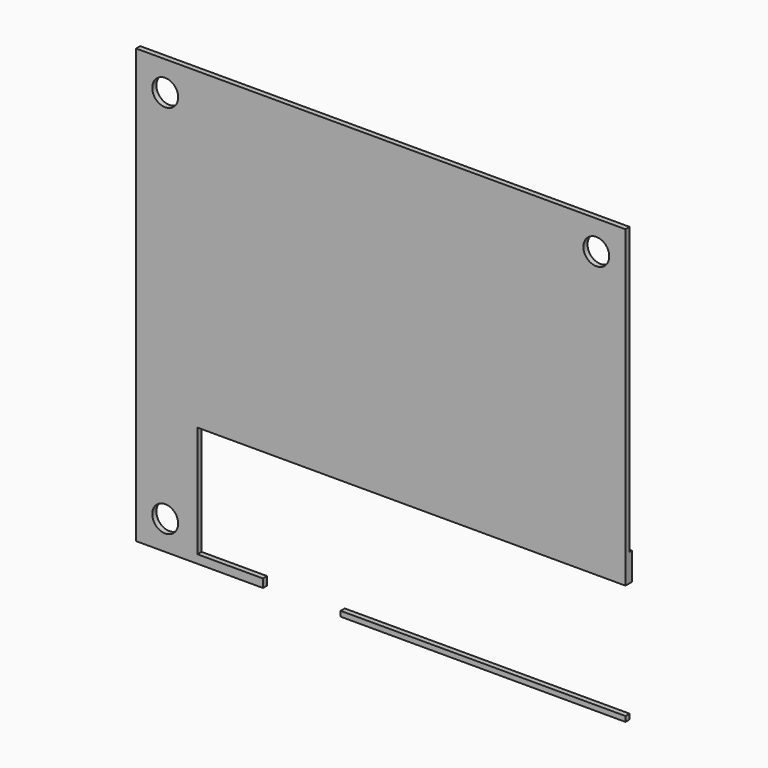
from build123d import *

# Parameters (mm, degrees)
F0_W      = 96.012
F0_H      = 85.09
F1_DEPTH  = 1.016
F3_W      = 59.69
F3_H      = 27.94
F4_DEPTH  = 25.4
F5_W      = 15.24
F5_H      = 28.9585393873
F6_DEPTH  = 25.4
F7_W      = 71.1203183985
F7_H      = 5.427393131
F8_DEPTH  = 1.5875
F9_W      = 12.8458908007
F9_H      = 21.8801462563
F10_DEPTH = 3.175
F12_D     = 5.08


with BuildPart() as f1:
    # F0 (on Front) → F1 (new body)
    with BuildSketch(Plane.XZ):
        Rectangle(F0_W, F0_H)
    extrude(amount=F1_DEPTH)

    # F3 (on face) → F4 (cut)
    with BuildSketch(Plane(origin=(0, 0, 0), x_dir=(-1, 0, 0), z_dir=(0, 1, 0))):
        with Locations((-21.9706816015, -27.5564606127)):
            Rectangle(F3_W, F3_H)
    extrude(amount=-F4_DEPTH, mode=Mode.SUBTRACT)

    # F5 (on face) → F6 (cut)
    with BuildSketch(Plane.XZ.offset(1.016)):
        with Locations((-15.4943183985, -28.0657303064)):
            Rectangle(F5_W, F5_H)
    extrude(amount=-F6_DEPTH, mode=Mode.SUBTRACT)

    # F7 (on face) → F8 (join)
    with BuildSketch(Plane.XZ.offset(1.016)):
        with Locations((12.4458408007, -16.3001571782)):
            Rectangle(F7_W, F7_H)
    extrude(amount=-F8_DEPTH)

    # F9 (on face) → F10 (cut)
    with BuildSketch(Plane.XZ.offset(1.016)):
        with Locations((-29.5372637989, -29.9539268718)):
            Rectangle(F9_W, F9_H)
    extrude(amount=-F10_DEPTH, mode=Mode.SUBTRACT)

    # F12 (through all)
    with Locations(Plane.XZ.offset(1.016)):
        with Locations((-42.291, 36.7885453174), (-42.291, -36.82624842), (42.291, 36.83)):
            Hole(F12_D / 2)


solid = f1.part
